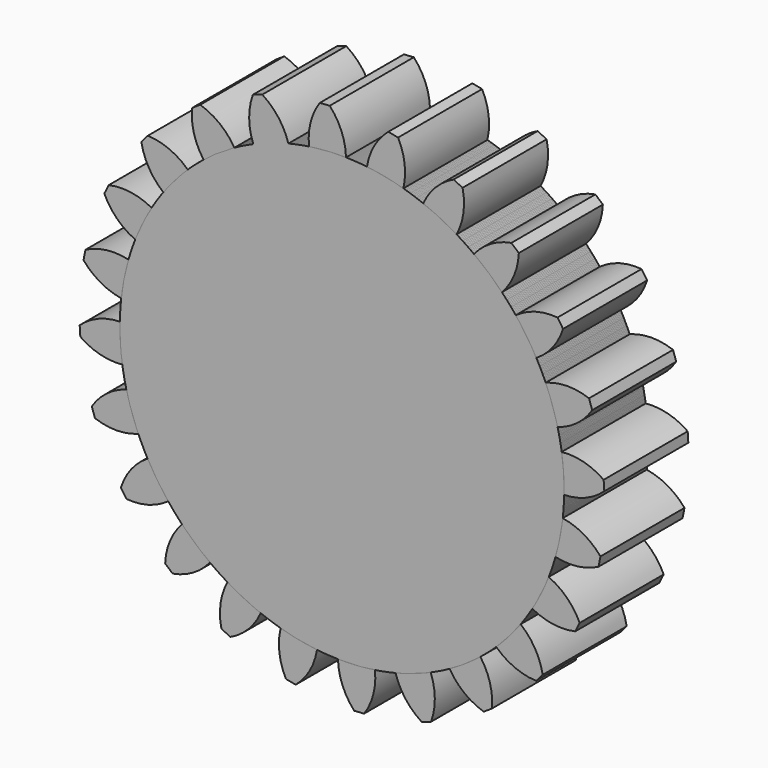
from build123d import *

# Parameters (mm, degrees)
F1_DEPTH = 25.4
F2_COUNT = 24
F2_ANGLE = 345


with BuildPart() as f1:
    # F0 (on Front) → F1 (new body)
    with BuildSketch(Plane.XZ):
        with BuildLine():
            ThreePointArc((-7.975493, 53.125675), (-3.513522, 53.605979), (0.972969, 53.712188))
            ThreePointArc((0.972969, 53.712188), (-0.111069, 58.927496), (-2.955611, 63.431178))
            Line((-2.955611, 63.431178), (-5.349105, 63.2743))
            ThreePointArc((-5.349105, 63.2743), (-7.581462, 58.43786), (-7.975493, 53.125675))
        make_face()
        with BuildLine():
            ThreePointArc((-7.975493, 53.125675), (-35.05349, -40.708705), (53.721, 0))
            ThreePointArc((53.721, 0), (38.328936, 37.640915), (0.972969, 53.712188))
            ThreePointArc((0.972969, 53.712188), (-3.513522, 53.605979), (-7.975493, 53.125675))
        make_face()
    extrude(amount=F1_DEPTH)


with BuildPart() as f2_1:
    # F2: instance of F1
    add(f1.part.rotate(Axis((0, 0, 0), (0, 1, 0)), 1 * F2_ANGLE / (F2_COUNT - 1)))


with BuildPart() as f2_2:
    # F2: instance of F1
    add(f1.part.rotate(Axis((0, 0, 0), (0, 1, 0)), 2 * F2_ANGLE / (F2_COUNT - 1)))


with BuildPart() as f2_3:
    # F2: instance of F1
    add(f1.part.rotate(Axis((0, 0, 0), (0, 1, 0)), 3 * F2_ANGLE / (F2_COUNT - 1)))


with BuildPart() as f2_4:
    # F2: instance of F1
    add(f1.part.rotate(Axis((0, 0, 0), (0, 1, 0)), 4 * F2_ANGLE / (F2_COUNT - 1)))


with BuildPart() as f2_5:
    # F2: instance of F1
    add(f1.part.rotate(Axis((0, 0, 0), (0, 1, 0)), 5 * F2_ANGLE / (F2_COUNT - 1)))


with BuildPart() as f2_6:
    # F2: instance of F1
    add(f1.part.rotate(Axis((0, 0, 0), (0, 1, 0)), 6 * F2_ANGLE / (F2_COUNT - 1)))


with BuildPart() as f2_7:
    # F2: instance of F1
    add(f1.part.rotate(Axis((0, 0, 0), (0, 1, 0)), 7 * F2_ANGLE / (F2_COUNT - 1)))


with BuildPart() as f2_8:
    # F2: instance of F1
    add(f1.part.rotate(Axis((0, 0, 0), (0, 1, 0)), 8 * F2_ANGLE / (F2_COUNT - 1)))


with BuildPart() as f2_9:
    # F2: instance of F1
    add(f1.part.rotate(Axis((0, 0, 0), (0, 1, 0)), 9 * F2_ANGLE / (F2_COUNT - 1)))


with BuildPart() as f2_10:
    # F2: instance of F1
    add(f1.part.rotate(Axis((0, 0, 0), (0, 1, 0)), 10 * F2_ANGLE / (F2_COUNT - 1)))


with BuildPart() as f2_11:
    # F2: instance of F1
    add(f1.part.rotate(Axis((0, 0, 0), (0, 1, 0)), 11 * F2_ANGLE / (F2_COUNT - 1)))


with BuildPart() as f2_12:
    # F2: instance of F1
    add(f1.part.rotate(Axis((0, 0, 0), (0, 1, 0)), 12 * F2_ANGLE / (F2_COUNT - 1)))


with BuildPart() as f2_13:
    # F2: instance of F1
    add(f1.part.rotate(Axis((0, 0, 0), (0, 1, 0)), 13 * F2_ANGLE / (F2_COUNT - 1)))


with BuildPart() as f2_14:
    # F2: instance of F1
    add(f1.part.rotate(Axis((0, 0, 0), (0, 1, 0)), 14 * F2_ANGLE / (F2_COUNT - 1)))


with BuildPart() as f2_15:
    # F2: instance of F1
    add(f1.part.rotate(Axis((0, 0, 0), (0, 1, 0)), 15 * F2_ANGLE / (F2_COUNT - 1)))


with BuildPart() as f2_16:
    # F2: instance of F1
    add(f1.part.rotate(Axis((0, 0, 0), (0, 1, 0)), 16 * F2_ANGLE / (F2_COUNT - 1)))


with BuildPart() as f2_17:
    # F2: instance of F1
    add(f1.part.rotate(Axis((0, 0, 0), (0, 1, 0)), 17 * F2_ANGLE / (F2_COUNT - 1)))


with BuildPart() as f2_18:
    # F2: instance of F1
    add(f1.part.rotate(Axis((0, 0, 0), (0, 1, 0)), 18 * F2_ANGLE / (F2_COUNT - 1)))


with BuildPart() as f2_19:
    # F2: instance of F1
    add(f1.part.rotate(Axis((0, 0, 0), (0, 1, 0)), 19 * F2_ANGLE / (F2_COUNT - 1)))


with BuildPart() as f2_20:
    # F2: instance of F1
    add(f1.part.rotate(Axis((0, 0, 0), (0, 1, 0)), 20 * F2_ANGLE / (F2_COUNT - 1)))


with BuildPart() as f2_21:
    # F2: instance of F1
    add(f1.part.rotate(Axis((0, 0, 0), (0, 1, 0)), 21 * F2_ANGLE / (F2_COUNT - 1)))


with BuildPart() as f2_22:
    # F2: instance of F1
    add(f1.part.rotate(Axis((0, 0, 0), (0, 1, 0)), 22 * F2_ANGLE / (F2_COUNT - 1)))


with BuildPart() as f2_23:
    # F2: instance of F1
    add(f1.part.rotate(Axis((0, 0, 0), (0, 1, 0)), 23 * F2_ANGLE / (F2_COUNT - 1)))


solid = Compound([f1.part, f2_1.part, f2_2.part, f2_3.part, f2_4.part, f2_5.part, f2_6.part, f2_7.part, f2_8.part, f2_9.part, f2_10.part, f2_11.part, f2_12.part, f2_13.part, f2_14.part, f2_15.part, f2_16.part, f2_17.part, f2_18.part, f2_19.part, f2_20.part, f2_21.part, f2_22.part, f2_23.part])
